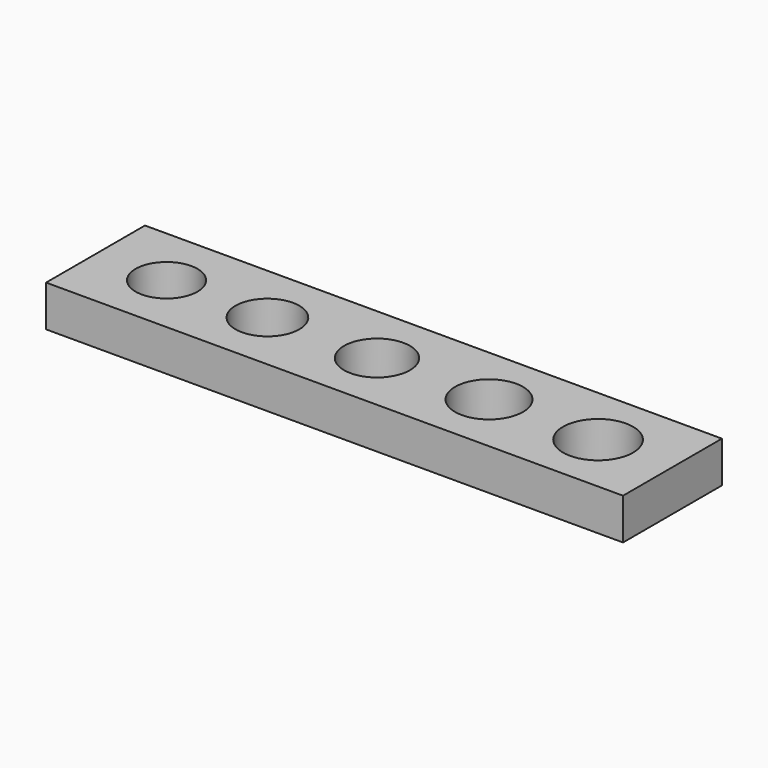
from build123d import *

# Parameters (mm, degrees)
F0_W     = 28
F0_H     = 6
F0_R     = 1.5
F0_R_2   = 1.55
F0_R_3   = 1.6
F0_R_4   = 1.65
F0_R_5   = 1.7
F1_DEPTH = 2


with BuildPart() as f1:
    # F0 (on Top) → F1 (new body)
    with BuildSketch(Plane.XY):
        Rectangle(F0_W, F0_H)
        with Locations((-10.554259, 0)):
            Circle(F0_R, mode=Mode.SUBTRACT)
        with Locations((-5.657633, 0)):
            Circle(F0_R_2, mode=Mode.SUBTRACT)
        with Locations((-0.339247, 0)):
            Circle(F0_R_3, mode=Mode.SUBTRACT)
        with Locations((5.096513, 0)):
            Circle(F0_R_4, mode=Mode.SUBTRACT)
        with Locations((10.38974, 0)):
            Circle(F0_R_5, mode=Mode.SUBTRACT)
    extrude(amount=F1_DEPTH)


solid = f1.part
